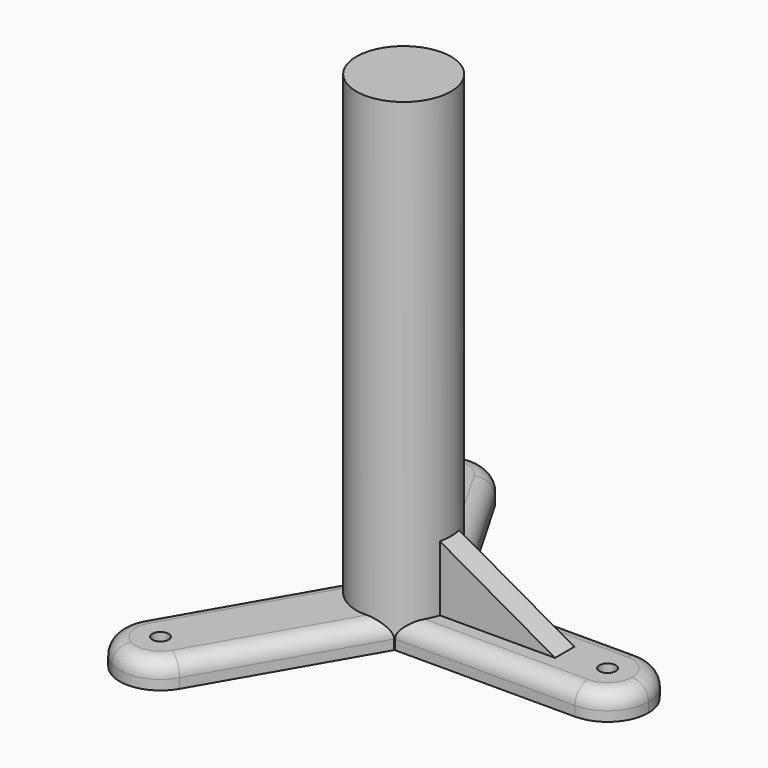
from build123d import *

# Parameters (mm, degrees)
F0_R     = 2.5
F1_DEPTH = 8
F2_R     = 5
F3_R     = 14.5
F4_DEPTH = 140
F5_DEPTH = 8
F7_DEPTH = 20
F9_DEPTH = 80.7


with BuildPart() as f1:
    # F0 (on Top) → F1 (new body)
    with BuildSketch(Plane.XY):
        with BuildLine():
            ThreePointArc((75, 0), (71.3388347648, 8.8388347648), (62.5, 12.5))
            Line((62.5, 12.5), (7.2168783649, 12.5))
            Line((7.2168783649, 12.5), (-20.4246824527, 60.3765877365))
            ThreePointArc((-20.4246824527, 60.3765877365), (-28.0147619362, 66.2006605651), (-37.5, 64.9519052838))
            ThreePointArc((-37.5, 64.9519052838), (-43.3240728286, 57.3618258003), (-42.0753175473, 47.8765877365))
            Line((-42.0753175473, 47.8765877365), (-14.4337567297, 0))
            Line((-14.4337567297, 0), (-42.0753175473, -47.8765877365))
            ThreePointArc((-42.0753175473, -47.8765877365), (-43.3240728286, -57.3618258003), (-37.5, -64.9519052838))
            ThreePointArc((-37.5, -64.9519052838), (-28.0147619362, -66.2006605651), (-20.4246824527, -60.3765877365))
            Line((-20.4246824527, -60.3765877365), (7.2168783649, -12.5))
            Line((7.2168783649, -12.5), (62.5, -12.5))
            ThreePointArc((62.5, -12.5), (71.3388347648, -8.8388347648), (75, 0))
        make_face()
        with Locations((-31.25, -54.1265877365)):
            Circle(F0_R, mode=Mode.SUBTRACT)
        with Locations((62.5, 0)):
            Circle(F0_R, mode=Mode.SUBTRACT)
        with Locations((-31.25, 54.1265877365)):
            Circle(F0_R, mode=Mode.SUBTRACT)
    extrude(amount=F1_DEPTH)

    # F2
    f2_edges = [f1.edges().sort_by_distance(p)[0] for p in [
        (-37.5, 64.951905, 8),
        (-28.254537, -23.938294, 8),
        (34.858439, -12.5, 8),
    ]]
    fillet(f2_edges, radius=F2_R)

    # F3 (on face) → F4 (join)
    with BuildSketch(Plane.XY.offset(8)):
        Circle(F3_R)
    extrude(amount=F4_DEPTH)

    # F5 (add): faces of the model
    f5_faces = [f1.faces().sort_by_distance(p)[0] for p in [
        (6.0657037569, -10.5061070906, 8),
        (6.0657037569, 10.5061070906, 8),
        (-12.1314075138, 0, 8),
    ]]
    extrude(f5_faces, amount=F5_DEPTH)

    # F6 (on face) → F7 (join)
    with BuildSketch(Plane.XY.offset(8)):
        with BuildLine():
            Line((14.024142154, -3.6842145491), (49.3441671133, -3.6842145491))
            Line((49.3441671133, -3.6842145491), (49.3441671133, 3.6842145491))
            Line((49.3441671133, 3.6842145491), (14.024142154, 3.6842145491))
            ThreePointArc((14.024142154, 3.6842145491), (14.3805434743, 1.8574093204), (14.5, 0))
            ThreePointArc((14.5, 0), (14.3805434743, -1.8574093204), (14.024142154, -3.6842145491))
        make_face()
    extrude(amount=F7_DEPTH)

    # F8 (on face) → F9 (cut)
    with BuildSketch(Plane.XZ.offset(3.6842145491)):
        Polygon((14.024142154, 28), (49.3441671133, 8), (49.3441671133, 28), align=None)
    extrude(amount=-F9_DEPTH, mode=Mode.SUBTRACT)


solid = f1.part
